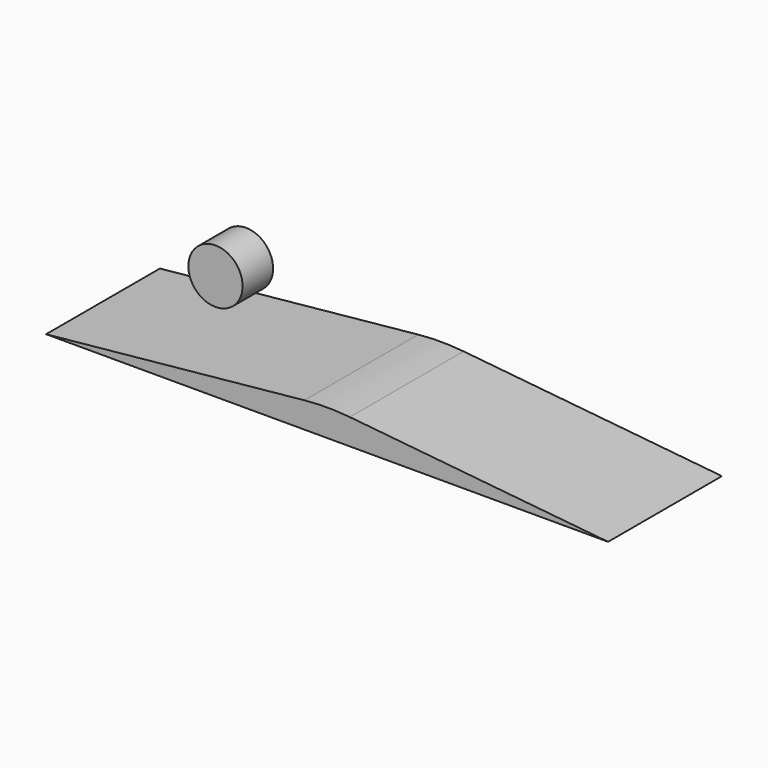
from build123d import *

# Parameters (mm, degrees)
F1_DEPTH = 25
F2_R     = 40.099751
F3_R     = 4.766112
F4_DEPTH = 6.7


with BuildPart() as f1:
    # F0 (on Front) → F1 (new body)
    with BuildSketch(Plane.XZ):
        Polygon((-0.618591, 27.120201), (-0.618591, 22.243919), (0.618591, 22.243919), (0.618591, 27.120201), (0, 27.18206), align=None)
        Polygon((0.618591, 27.120201), (0.618591, 22.243919), (49.381409, 22.243919), align=None)
        Polygon((-0.618591, 27.120201), (-49.381409, 22.243919), (-0.618591, 22.243919), align=None)
    extrude(amount=F1_DEPTH)

    # F2
    f2_edges = [f1.edges().sort_by_distance(p)[0] for p in [
        (0, -12.5, 27.18206),
    ]]
    fillet(f2_edges, radius=F2_R)


with BuildPart() as f4:
    # F3 (on Front) → F4 (new body)
    with BuildSketch(Plane.XZ):
        with Locations((-34.253359, 28.704027)):
            Circle(F3_R)
    extrude(amount=F4_DEPTH)


solid = Compound([f1.part, f4.part])
